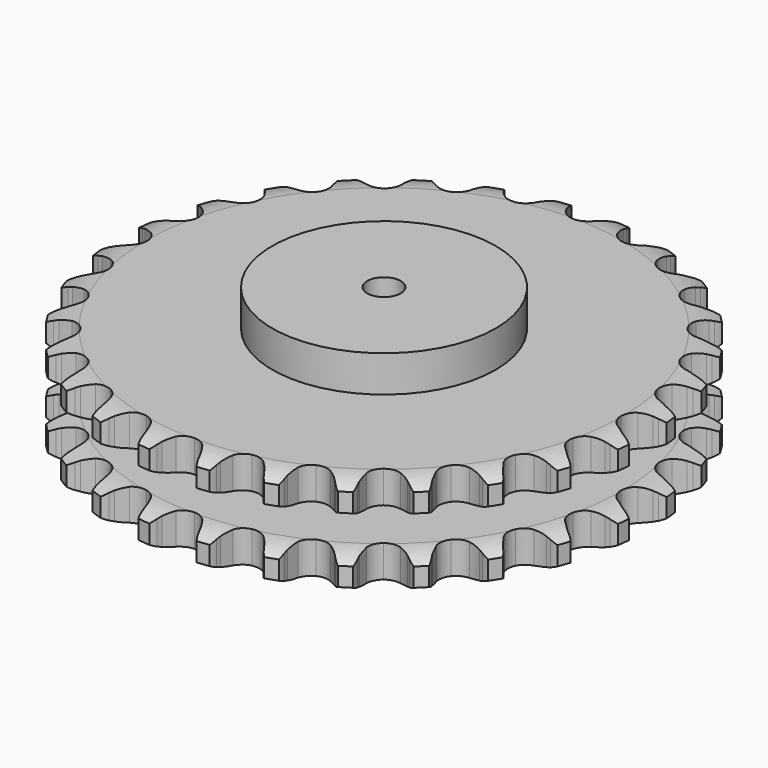
from build123d import *

# Parameters (mm, degrees)
PAD_DEPTH         = 87.4
SKETCH001_R       = 100
PAD001_DEPTH      = 120
SKETCH002_R       = 15
POCKET_DEPTH      = 0.001
POCKET_DEPTH_BACK = 120.001


with BuildPart() as part:
    # Sprocket → Pad (new body)
    with BuildSketch(Plane.XY):
        with BuildLine():
            ThreePointArc((-27.282384, 242.137854), (-21.936938, 237.213155), (-18.316343, 230.910954))
            Line((-18.316343, 230.910954), (-16.893061, 227.230633))
            ThreePointArc((-16.893061, 227.230633), (-14.635595, 222.420827), (-11.730702, 217.972007))
            ThreePointArc((-11.730702, 217.972007), (-6.549879, 213.679527), (0, 212.141543))
            ThreePointArc((0, 212.141543), (6.549879, 213.679527), (11.730702, 217.972007))
            ThreePointArc((11.730702, 217.972007), (14.635595, 222.420827), (16.893061, 227.230633))
            Line((16.893061, 227.230633), (18.316343, 230.910954))
            ThreePointArc((18.316343, 230.910954), (21.936938, 237.213155), (27.282384, 242.137854))
            ThreePointArc((27.282384, 242.137854), (31.39796, 236.147154), (33.525407, 229.197304))
            Line((33.525407, 229.197304), (34.094056, 225.292547))
            ThreePointArc((34.094056, 225.292547), (35.22464, 220.100998), (37.066746, 215.117321))
            ThreePointArc((37.066746, 215.117321), (41.162508, 209.77962), (47.205934, 206.822712))
            ThreePointArc((47.205934, 206.822712), (53.933828, 206.86465), (59.939923, 209.896667))
            Line((59.939923, 209.896667), (67.03309, 217.774427))
            ThreePointArc((67.03309, 217.774427), (68.093965, 219.438693), (69.239635, 221.045765))
            ThreePointArc((69.239635, 221.045765), (74.171826, 226.384298), (80.479099, 229.99605))
            ThreePointArc((80.479099, 229.99605), (83.158433, 223.239748), (83.686054, 215.990744))
            Line((83.686054, 215.990744), (83.371554, 212.057351))
            ThreePointArc((83.371554, 212.057351), (83.318565, 206.744387), (84.005513, 201.475753))
            ThreePointArc((84.005513, 201.475753), (86.810835, 195.360487), (92.044766, 191.132926))
            ThreePointArc((92.044766, 191.132926), (98.613309, 189.676715), (105.143507, 191.296232))
            Line((105.143507, 191.296232), (113.811799, 197.398102))
            ThreePointArc((113.811799, 197.398102), (115.21641, 198.784574), (116.690963, 200.096417))
            ThreePointArc((116.690963, 200.096417), (122.687429, 204.203587), (129.640256, 206.321285))
            ThreePointArc((129.640256, 206.321285), (130.748995, 199.13817), (129.650332, 191.953506))
            Line((129.650332, 191.953506), (128.468455, 188.188715))
            ThreePointArc((128.468455, 188.188715), (127.234548, 183.020749), (126.731892, 177.73135))
            ThreePointArc((126.731892, 177.73135), (128.106104, 171.145164), (132.268089, 165.858937))
            ThreePointArc((132.268089, 165.858937), (138.347908, 162.977598), (145.074755, 163.103405))
            Line((145.074755, 163.103405), (154.88351, 167.123411))
            ThreePointArc((154.88351, 167.123411), (156.561424, 168.162566), (158.290918, 169.113401))
            ThreePointArc((158.290918, 169.113401), (165.050972, 171.783256), (172.300709, 172.300709))
            ThreePointArc((172.300709, 172.300709), (171.783256, 165.050972), (169.113401, 158.290918))
            Line((169.113401, 158.290918), (167.123411, 154.88351))
            ThreePointArc((167.123411, 154.88351), (164.770461, 150.119686), (163.103405, 145.074755))
            ThreePointArc((163.103405, 145.074755), (162.977598, 138.347908), (165.858937, 132.268089))
            ThreePointArc((165.858937, 132.268089), (171.145164, 128.106104), (177.73135, 126.731892))
            Line((177.73135, 126.731892), (188.188715, 128.468455))
            ThreePointArc((188.188715, 128.468455), (190.055793, 129.108186), (191.953506, 129.650332))
            ThreePointArc((191.953506, 129.650332), (199.13817, 130.748995), (206.321285, 129.640256))
            ThreePointArc((206.321285, 129.640256), (204.203587, 122.687429), (200.096417, 116.690963))
            Line((200.096417, 116.690963), (197.398102, 113.811799))
            ThreePointArc((197.398102, 113.811799), (194.044094, 109.690995), (191.296232, 105.143507))
            ThreePointArc((191.296232, 105.143507), (189.676715, 98.613309), (191.132926, 92.044766))
            ThreePointArc((191.132926, 92.044766), (195.360487, 86.810835), (201.475753, 84.005513))
            Line((201.475753, 84.005513), (212.057351, 83.371554))
            ThreePointArc((212.057351, 83.371554), (214.019972, 83.579781), (215.990744, 83.686054))
            ThreePointArc((215.990744, 83.686054), (223.239748, 83.158433), (229.99605, 80.479099))
            ThreePointArc((229.99605, 80.479099), (226.384298, 74.171826), (221.045765, 69.239635))
            Line((221.045765, 69.239635), (217.774427, 67.03309))
            ThreePointArc((217.774427, 67.03309), (213.587546, 63.76194), (209.896667, 59.939923))
            ThreePointArc((209.896667, 59.939923), (206.86465, 53.933828), (206.822712, 47.205934))
            ThreePointArc((206.822712, 47.205934), (209.77962, 41.162508), (215.117321, 37.066746))
            Line((215.117321, 37.066746), (225.292547, 34.094056))
            ThreePointArc((225.292547, 34.094056), (227.252295, 33.860338), (229.197304, 33.525407))
            ThreePointArc((229.197304, 33.525407), (236.147154, 31.39796), (242.137854, 27.282384))
            ThreePointArc((242.137854, 27.282384), (237.213155, 21.936938), (230.910954, 18.316343))
            Line((230.910954, 18.316343), (227.230633, 16.893061))
            ThreePointArc((227.230633, 16.893061), (222.420827, 14.635595), (217.972007, 11.730702))
            ThreePointArc((217.972007, 11.730702), (213.679527, 6.549879), (212.141543, 0))
            ThreePointArc((212.141543, 0), (213.679527, -6.549879), (217.972007, -11.730702))
            Line((217.972007, -11.730702), (227.230633, -16.893061))
            ThreePointArc((227.230633, -16.893061), (229.08924, -17.557005), (230.910954, -18.316343))
            ThreePointArc((230.910954, -18.316343), (237.213155, -21.936938), (242.137854, -27.282384))
            ThreePointArc((242.137854, -27.282384), (236.147154, -31.39796), (229.197304, -33.525407))
            Line((229.197304, -33.525407), (225.292547, -34.094056))
            ThreePointArc((225.292547, -34.094056), (220.100998, -35.22464), (215.117321, -37.066746))
            ThreePointArc((215.117321, -37.066746), (209.77962, -41.162508), (206.822712, -47.205934))
            ThreePointArc((206.822712, -47.205934), (206.86465, -53.933828), (209.896667, -59.939923))
            Line((209.896667, -59.939923), (217.774427, -67.03309))
            ThreePointArc((217.774427, -67.03309), (219.438693, -68.093965), (221.045765, -69.239635))
            ThreePointArc((221.045765, -69.239635), (226.384298, -74.171826), (229.99605, -80.479099))
            ThreePointArc((229.99605, -80.479099), (223.239748, -83.158433), (215.990744, -83.686054))
            Line((215.990744, -83.686054), (212.057351, -83.371554))
            ThreePointArc((212.057351, -83.371554), (206.744387, -83.318565), (201.475753, -84.005513))
            ThreePointArc((201.475753, -84.005513), (195.360487, -86.810835), (191.132926, -92.044766))
            ThreePointArc((191.132926, -92.044766), (189.676715, -98.613309), (191.296232, -105.143507))
            Line((191.296232, -105.143507), (197.398102, -113.811799))
            ThreePointArc((197.398102, -113.811799), (198.784574, -115.21641), (200.096417, -116.690963))
            ThreePointArc((200.096417, -116.690963), (204.203587, -122.687429), (206.321285, -129.640256))
            ThreePointArc((206.321285, -129.640256), (199.13817, -130.748995), (191.953506, -129.650332))
            Line((191.953506, -129.650332), (188.188715, -128.468455))
            ThreePointArc((188.188715, -128.468455), (183.020749, -127.234548), (177.73135, -126.731892))
            ThreePointArc((177.73135, -126.731892), (171.145164, -128.106104), (165.858937, -132.268089))
            ThreePointArc((165.858937, -132.268089), (162.977598, -138.347908), (163.103405, -145.074755))
            Line((163.103405, -145.074755), (167.123411, -154.88351))
            ThreePointArc((167.123411, -154.88351), (168.162566, -156.561424), (169.113401, -158.290918))
            ThreePointArc((169.113401, -158.290918), (171.783256, -165.050972), (172.300709, -172.300709))
            ThreePointArc((172.300709, -172.300709), (165.050972, -171.783256), (158.290918, -169.113401))
            Line((158.290918, -169.113401), (154.88351, -167.123411))
            ThreePointArc((154.88351, -167.123411), (150.119686, -164.770461), (145.074755, -163.103405))
            ThreePointArc((145.074755, -163.103405), (138.347908, -162.977598), (132.268089, -165.858937))
            ThreePointArc((132.268089, -165.858937), (128.106104, -171.145164), (126.731892, -177.73135))
            Line((126.731892, -177.73135), (128.468455, -188.188715))
            ThreePointArc((128.468455, -188.188715), (129.108186, -190.055793), (129.650332, -191.953506))
            ThreePointArc((129.650332, -191.953506), (130.748995, -199.13817), (129.640256, -206.321285))
            ThreePointArc((129.640256, -206.321285), (122.687429, -204.203587), (116.690963, -200.096417))
            Line((116.690963, -200.096417), (113.811799, -197.398102))
            ThreePointArc((113.811799, -197.398102), (109.690995, -194.044094), (105.143507, -191.296232))
            ThreePointArc((105.143507, -191.296232), (98.613309, -189.676715), (92.044766, -191.132926))
            ThreePointArc((92.044766, -191.132926), (86.810835, -195.360487), (84.005513, -201.475753))
            Line((84.005513, -201.475753), (83.371554, -212.057351))
            ThreePointArc((83.371554, -212.057351), (83.579781, -214.019972), (83.686054, -215.990744))
            ThreePointArc((83.686054, -215.990744), (83.158433, -223.239748), (80.479099, -229.99605))
            ThreePointArc((80.479099, -229.99605), (74.171826, -226.384298), (69.239635, -221.045765))
            Line((69.239635, -221.045765), (67.03309, -217.774427))
            ThreePointArc((67.03309, -217.774427), (63.76194, -213.587546), (59.939923, -209.896667))
            ThreePointArc((59.939923, -209.896667), (53.933828, -206.86465), (47.205934, -206.822712))
            ThreePointArc((47.205934, -206.822712), (41.162508, -209.77962), (37.066746, -215.117321))
            Line((37.066746, -215.117321), (34.094056, -225.292547))
            ThreePointArc((34.094056, -225.292547), (33.860338, -227.252295), (33.525407, -229.197304))
            ThreePointArc((33.525407, -229.197304), (31.39796, -236.147154), (27.282384, -242.137854))
            ThreePointArc((27.282384, -242.137854), (21.936938, -237.213155), (18.316343, -230.910954))
            Line((18.316343, -230.910954), (16.893061, -227.230633))
            ThreePointArc((16.893061, -227.230633), (14.635595, -222.420827), (11.730702, -217.972007))
            ThreePointArc((11.730702, -217.972007), (6.549879, -213.679527), (0, -212.141543))
            ThreePointArc((0, -212.141543), (-6.549879, -213.679527), (-11.730702, -217.972007))
            Line((-11.730702, -217.972007), (-16.893061, -227.230633))
            ThreePointArc((-16.893061, -227.230633), (-17.557005, -229.08924), (-18.316343, -230.910954))
            ThreePointArc((-18.316343, -230.910954), (-21.936938, -237.213155), (-27.282384, -242.137854))
            ThreePointArc((-27.282384, -242.137854), (-31.39796, -236.147154), (-33.525407, -229.197304))
            Line((-33.525407, -229.197304), (-34.094056, -225.292547))
            ThreePointArc((-34.094056, -225.292547), (-35.22464, -220.100998), (-37.066746, -215.117321))
            ThreePointArc((-37.066746, -215.117321), (-41.162508, -209.77962), (-47.205934, -206.822712))
            ThreePointArc((-47.205934, -206.822712), (-53.933828, -206.86465), (-59.939923, -209.896667))
            Line((-59.939923, -209.896667), (-67.03309, -217.774427))
            ThreePointArc((-67.03309, -217.774427), (-68.093965, -219.438693), (-69.239635, -221.045765))
            ThreePointArc((-69.239635, -221.045765), (-74.171826, -226.384298), (-80.479099, -229.99605))
            ThreePointArc((-80.479099, -229.99605), (-83.158433, -223.239748), (-83.686054, -215.990744))
            Line((-83.686054, -215.990744), (-83.371554, -212.057351))
            ThreePointArc((-83.371554, -212.057351), (-83.318565, -206.744387), (-84.005513, -201.475753))
            ThreePointArc((-84.005513, -201.475753), (-86.810835, -195.360487), (-92.044766, -191.132926))
            ThreePointArc((-92.044766, -191.132926), (-98.613309, -189.676715), (-105.143507, -191.296232))
            Line((-105.143507, -191.296232), (-113.811799, -197.398102))
            ThreePointArc((-113.811799, -197.398102), (-115.21641, -198.784574), (-116.690963, -200.096417))
            ThreePointArc((-116.690963, -200.096417), (-122.687429, -204.203587), (-129.640256, -206.321285))
            ThreePointArc((-129.640256, -206.321285), (-130.748995, -199.13817), (-129.650332, -191.953506))
            Line((-129.650332, -191.953506), (-128.468455, -188.188715))
            ThreePointArc((-128.468455, -188.188715), (-127.234548, -183.020749), (-126.731892, -177.73135))
            ThreePointArc((-126.731892, -177.73135), (-128.106104, -171.145164), (-132.268089, -165.858937))
            ThreePointArc((-132.268089, -165.858937), (-138.347908, -162.977598), (-145.074755, -163.103405))
            Line((-145.074755, -163.103405), (-154.88351, -167.123411))
            ThreePointArc((-154.88351, -167.123411), (-156.561424, -168.162566), (-158.290918, -169.113401))
            ThreePointArc((-158.290918, -169.113401), (-165.050972, -171.783256), (-172.300709, -172.300709))
            ThreePointArc((-172.300709, -172.300709), (-171.783256, -165.050972), (-169.113401, -158.290918))
            Line((-169.113401, -158.290918), (-167.123411, -154.88351))
            ThreePointArc((-167.123411, -154.88351), (-164.770461, -150.119686), (-163.103405, -145.074755))
            ThreePointArc((-163.103405, -145.074755), (-162.977598, -138.347908), (-165.858937, -132.268089))
            ThreePointArc((-165.858937, -132.268089), (-171.145164, -128.106104), (-177.73135, -126.731892))
            Line((-177.73135, -126.731892), (-188.188715, -128.468455))
            ThreePointArc((-188.188715, -128.468455), (-190.055793, -129.108186), (-191.953506, -129.650332))
            ThreePointArc((-191.953506, -129.650332), (-199.13817, -130.748995), (-206.321285, -129.640256))
            ThreePointArc((-206.321285, -129.640256), (-204.203587, -122.687429), (-200.096417, -116.690963))
            Line((-200.096417, -116.690963), (-197.398102, -113.811799))
            ThreePointArc((-197.398102, -113.811799), (-194.044094, -109.690995), (-191.296232, -105.143507))
            ThreePointArc((-191.296232, -105.143507), (-189.676715, -98.613309), (-191.132926, -92.044766))
            ThreePointArc((-191.132926, -92.044766), (-195.360487, -86.810835), (-201.475753, -84.005513))
            Line((-201.475753, -84.005513), (-212.057351, -83.371554))
            ThreePointArc((-212.057351, -83.371554), (-214.019972, -83.579781), (-215.990744, -83.686054))
            ThreePointArc((-215.990744, -83.686054), (-223.239748, -83.158433), (-229.99605, -80.479099))
            ThreePointArc((-229.99605, -80.479099), (-226.384298, -74.171826), (-221.045765, -69.239635))
            Line((-221.045765, -69.239635), (-217.774427, -67.03309))
            ThreePointArc((-217.774427, -67.03309), (-213.587546, -63.76194), (-209.896667, -59.939923))
            ThreePointArc((-209.896667, -59.939923), (-206.86465, -53.933828), (-206.822712, -47.205934))
            ThreePointArc((-206.822712, -47.205934), (-209.77962, -41.162508), (-215.117321, -37.066746))
            Line((-215.117321, -37.066746), (-225.292547, -34.094056))
            ThreePointArc((-225.292547, -34.094056), (-227.252295, -33.860338), (-229.197304, -33.525407))
            ThreePointArc((-229.197304, -33.525407), (-236.147154, -31.39796), (-242.137854, -27.282384))
            ThreePointArc((-242.137854, -27.282384), (-237.213155, -21.936938), (-230.910954, -18.316343))
            Line((-230.910954, -18.316343), (-227.230633, -16.893061))
            ThreePointArc((-227.230633, -16.893061), (-222.420827, -14.635595), (-217.972007, -11.730702))
            ThreePointArc((-217.972007, -11.730702), (-213.679527, -6.549879), (-212.141543, 0))
            ThreePointArc((-212.141543, 0), (-213.679527, 6.549879), (-217.972007, 11.730702))
            Line((-217.972007, 11.730702), (-227.230633, 16.893061))
            ThreePointArc((-227.230633, 16.893061), (-229.08924, 17.557005), (-230.910954, 18.316343))
            ThreePointArc((-230.910954, 18.316343), (-237.213155, 21.936938), (-242.137854, 27.282384))
            ThreePointArc((-242.137854, 27.282384), (-236.147154, 31.39796), (-229.197304, 33.525407))
            Line((-229.197304, 33.525407), (-225.292547, 34.094056))
            ThreePointArc((-225.292547, 34.094056), (-220.100998, 35.22464), (-215.117321, 37.066746))
            ThreePointArc((-215.117321, 37.066746), (-209.77962, 41.162508), (-206.822712, 47.205934))
            ThreePointArc((-206.822712, 47.205934), (-206.86465, 53.933828), (-209.896667, 59.939923))
            Line((-209.896667, 59.939923), (-217.774427, 67.03309))
            ThreePointArc((-217.774427, 67.03309), (-219.438693, 68.093965), (-221.045765, 69.239635))
            ThreePointArc((-221.045765, 69.239635), (-226.384298, 74.171826), (-229.99605, 80.479099))
            ThreePointArc((-229.99605, 80.479099), (-223.239748, 83.158433), (-215.990744, 83.686054))
            Line((-215.990744, 83.686054), (-212.057351, 83.371554))
            ThreePointArc((-212.057351, 83.371554), (-206.744387, 83.318565), (-201.475753, 84.005513))
            ThreePointArc((-201.475753, 84.005513), (-195.360487, 86.810835), (-191.132926, 92.044766))
            ThreePointArc((-191.132926, 92.044766), (-189.676715, 98.613309), (-191.296232, 105.143507))
            Line((-191.296232, 105.143507), (-197.398102, 113.811799))
            ThreePointArc((-197.398102, 113.811799), (-198.784574, 115.21641), (-200.096417, 116.690963))
            ThreePointArc((-200.096417, 116.690963), (-204.203587, 122.687429), (-206.321285, 129.640256))
            ThreePointArc((-206.321285, 129.640256), (-199.13817, 130.748995), (-191.953506, 129.650332))
            Line((-191.953506, 129.650332), (-188.188715, 128.468455))
            ThreePointArc((-188.188715, 128.468455), (-183.020749, 127.234548), (-177.73135, 126.731892))
            ThreePointArc((-177.73135, 126.731892), (-171.145164, 128.106104), (-165.858937, 132.268089))
            ThreePointArc((-165.858937, 132.268089), (-162.977598, 138.347908), (-163.103405, 145.074755))
            Line((-163.103405, 145.074755), (-167.123411, 154.88351))
            ThreePointArc((-167.123411, 154.88351), (-168.162566, 156.561424), (-169.113401, 158.290918))
            ThreePointArc((-169.113401, 158.290918), (-171.783256, 165.050972), (-172.300709, 172.300709))
            ThreePointArc((-172.300709, 172.300709), (-165.050972, 171.783256), (-158.290918, 169.113401))
            Line((-158.290918, 169.113401), (-154.88351, 167.123411))
            ThreePointArc((-154.88351, 167.123411), (-150.119686, 164.770461), (-145.074755, 163.103405))
            ThreePointArc((-145.074755, 163.103405), (-138.347908, 162.977598), (-132.268089, 165.858937))
            ThreePointArc((-132.268089, 165.858937), (-128.106104, 171.145164), (-126.731892, 177.73135))
            Line((-126.731892, 177.73135), (-128.468455, 188.188715))
            ThreePointArc((-128.468455, 188.188715), (-129.108186, 190.055793), (-129.650332, 191.953506))
            ThreePointArc((-129.650332, 191.953506), (-130.748995, 199.13817), (-129.640256, 206.321285))
            ThreePointArc((-129.640256, 206.321285), (-122.687429, 204.203587), (-116.690963, 200.096417))
            Line((-116.690963, 200.096417), (-113.811799, 197.398102))
            ThreePointArc((-113.811799, 197.398102), (-109.690995, 194.044094), (-105.143507, 191.296232))
            ThreePointArc((-105.143507, 191.296232), (-98.613309, 189.676715), (-92.044766, 191.132926))
            ThreePointArc((-92.044766, 191.132926), (-86.810835, 195.360487), (-84.005513, 201.475753))
            Line((-84.005513, 201.475753), (-83.371554, 212.057351))
            ThreePointArc((-83.371554, 212.057351), (-83.579781, 214.019972), (-83.686054, 215.990744))
            ThreePointArc((-83.686054, 215.990744), (-83.158433, 223.239748), (-80.479099, 229.99605))
            ThreePointArc((-80.479099, 229.99605), (-74.171826, 226.384298), (-69.239635, 221.045765))
            Line((-69.239635, 221.045765), (-67.03309, 217.774427))
            ThreePointArc((-67.03309, 217.774427), (-63.76194, 213.587546), (-59.939923, 209.896667))
            ThreePointArc((-59.939923, 209.896667), (-53.933828, 206.86465), (-47.205934, 206.822712))
            ThreePointArc((-47.205934, 206.822712), (-41.162508, 209.77962), (-37.066746, 215.117321))
            Line((-37.066746, 215.117321), (-34.094056, 225.292547))
            ThreePointArc((-34.094056, 225.292547), (-33.860338, 227.252295), (-33.525407, 229.197304))
            ThreePointArc((-33.525407, 229.197304), (-31.39796, 236.147154), (-27.282384, 242.137854))
        make_face()
    extrude(amount=PAD_DEPTH)

    # Sketch → Groove (revolve, cut)
    with BuildSketch(Plane.XZ):
        with BuildLine():
            ThreePointArc((213.1, 0), (225.469317, 1.522732), (237.1, 6))
            Line((237.1, 6), (237.1, 22.8))
            ThreePointArc((237.1, 22.8), (225.469317, 27.277268), (213.1, 28.8))
            Line((100, 28.8), (213.1, 28.8))
            Line((100, 58.6), (100, 28.8))
            Line((213.1, 58.6), (100, 58.6))
            ThreePointArc((213.1, 58.6), (225.469317, 60.122732), (237.1, 64.6))
            Line((237.1, 64.6), (237.1, 81.4))
            ThreePointArc((237.1, 81.4), (225.469317, 85.877268), (213.1, 87.4))
            Line((213.1, 87.4), (247.1, 87.4))
            Line((247.1, 87.4), (247.1, 0))
            Line((213.1, 0), (247.1, 0))
        make_face()
    revolve(axis=Axis((0, 0, 0), (0, 0, 1)), mode=Mode.SUBTRACT)

    # Sketch001 → Pad001 (join)
    with BuildSketch(Plane.XY):
        Circle(SKETCH001_R)
    extrude(amount=PAD001_DEPTH)

    # Sketch002 → Pocket (cut, two sides)
    with BuildSketch(Plane.XY) as pocket_sk:
        Circle(SKETCH002_R)
    extrude(amount=-POCKET_DEPTH, mode=Mode.SUBTRACT)
    extrude(pocket_sk.sketch, amount=POCKET_DEPTH_BACK, mode=Mode.SUBTRACT)


solid = part.part
